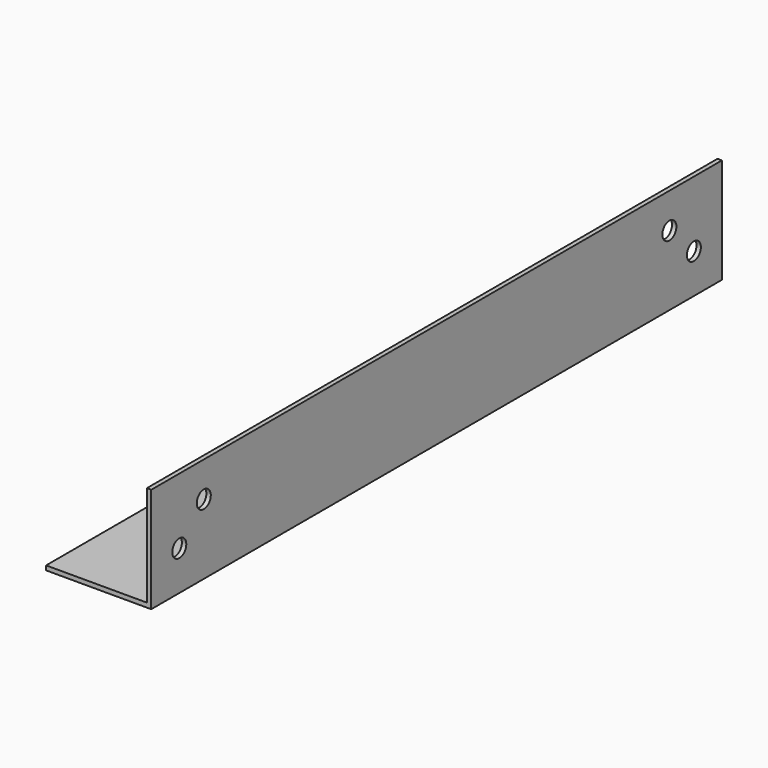
from build123d import *

# Parameters (mm, degrees)
PAD001_DEPTH      = 129.237
PAD001_DEPTH_BACK = 129.237
SKETCH005_R       = 3.175
POCKET002_DEPTH   = 1.6002
SKETCH010_R       = 3.175
POCKET003_DEPTH   = 1.6002


with BuildPart() as pocket003:
    # Sketch003 → Pad001 (new body, two sides)
    with BuildSketch(Plane(origin=(-129.237, 0, -38.1), x_dir=(1, 0, 0), z_dir=(0, 1, 0))) as pad001_sk:
        Polygon((0, 0), (38.1, 0), (38.1, -1.6002), (1.6002, -1.6002), (1.6002, -38.1), (0, -38.1), align=None)
    extrude(amount=PAD001_DEPTH)
    extrude(pad001_sk.sketch, amount=-PAD001_DEPTH_BACK)

    # Sketch005 → Pocket002 (cut)
    with BuildSketch(Plane(origin=(-129.237, 0, -38.1), x_dir=(0, 0, 1), z_dir=(-1, 0, 0))):
        with Locations((25.4, 105.4372)):
            Circle(SKETCH005_R)
        with Locations((14.3002, 116.537)):
            Circle(SKETCH005_R)
        with Locations((25.4, -105.4372)):
            Circle(SKETCH005_R)
        with Locations((14.3002, -116.537)):
            Circle(SKETCH005_R)
    extrude(amount=-POCKET002_DEPTH, mode=Mode.SUBTRACT)

    # Sketch010 → Pocket003 (cut)
    with BuildSketch(Plane(origin=(-129.237, 0, -38.1), x_dir=(-1, 0, 0), z_dir=(0, 0, -1))):
        with Locations((-23.7998, -65.0766)):
            Circle(SKETCH010_R)
        with Locations((-12.7, -76.2272)):
            Circle(SKETCH010_R)
        with Locations((-23.7998, 65.0766)):
            Circle(SKETCH010_R)
        with Locations((-12.7, 76.2272)):
            Circle(SKETCH010_R)
    extrude(amount=-POCKET003_DEPTH, mode=Mode.SUBTRACT)


with BuildPart() as part_mirroring:
    # Part__Mirroring: instance of Pocket003
    add(pocket003.part.mirror(Plane(origin=(0, 0, 0), x_dir=(0, -1, 0), z_dir=(1, 0, 0))))


with BuildPart() as part_mirroring_1:
    # Part__Mirroring placement: moved
    add(part_mirroring.part.moved(Location((0, 0.0127, 0))))


solid = part_mirroring_1.part
